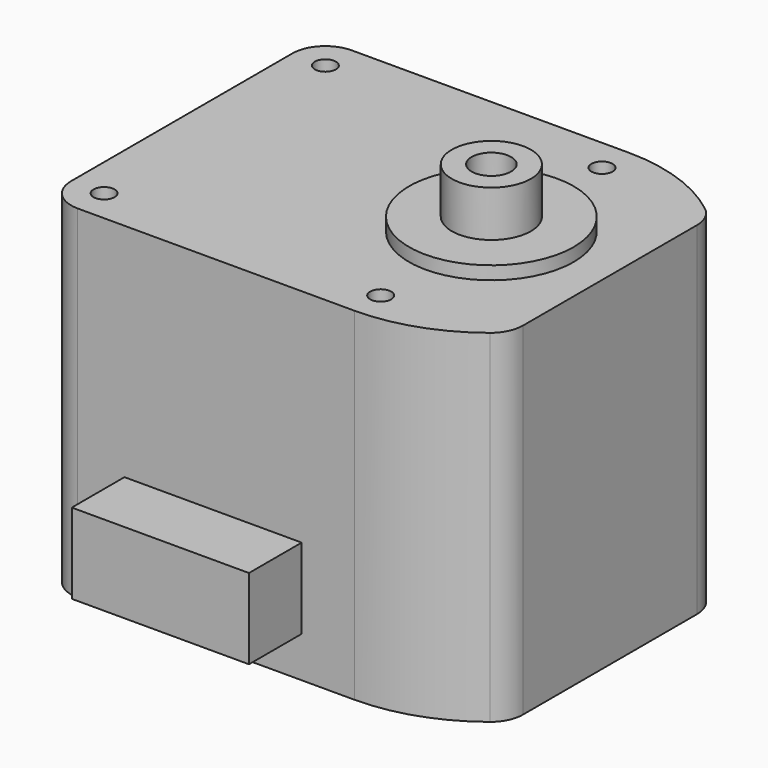
from build123d import *

# Parameters (mm, degrees)
F0_R          = 0.8
F1_DEPTH      = 13
F2_R          = 6.25
F3_DEPTH      = 1
F3_DEPTH_BACK = 27
F4_R          = 3
F4_R_2        = 1.5
F5_DEPTH      = 3.5
F6_R          = 3.5
F6_R_2        = 1.1
F7_DEPTH      = 2
F8_W          = 13.45
F8_H          = 6.1
F9_DEPTH      = 5


with BuildPart() as f1:
    # F0 (on Top) → F1 (new body, symmetric)
    with BuildSketch(Plane.XY):
        with BuildLine():
            Line((-23.5, 10.5), (-23.5, 0))
            Line((-23.5, 0), (-23.5, -10.5))
            ThreePointArc((-23.5, -10.5), (-22.767767, -12.267767), (-21, -13))
            Line((-21, -13), (0, -13))
            ThreePointArc((0, -13), (4.25883, -12.282604), (8.047619, -10.209595))
            ThreePointArc((8.047619, -10.209595), (8.749339, -9.337301), (9, -8.246211))
            Line((9, -8.246211), (9, 0))
            Line((9, 0), (9, 8.246211))
            ThreePointArc((9, 8.246211), (8.749339, 9.337301), (8.047619, 10.209595))
            ThreePointArc((8.047619, 10.209595), (4.25883, 12.282604), (0, 13))
            Line((0, 13), (-21, 13))
            ThreePointArc((-21, 13), (-22.767767, 12.267767), (-23.5, 10.5))
        make_face()
        with Locations((-21, -10.5)):
            Circle(F0_R, mode=Mode.SUBTRACT)
        with Locations((0, -10.5)):
            Circle(F0_R, mode=Mode.SUBTRACT)
        with Locations((-21, 10.5)):
            Circle(F0_R, mode=Mode.SUBTRACT)
        with Locations((0, 10.5)):
            Circle(F0_R, mode=Mode.SUBTRACT)
    extrude(amount=F1_DEPTH, both=True)

    # F2 (on face) → F3 (join, two sides)
    with BuildSketch(Plane.XY.offset(13)) as f3_sk:
        Circle(F2_R)
    extrude(amount=F3_DEPTH)
    extrude(f3_sk.sketch, amount=-F3_DEPTH_BACK)

    # F4 (on face) → F5 (join)
    with BuildSketch(Plane.XY.offset(14)):
        Circle(F4_R)
        Circle(F4_R_2, mode=Mode.SUBTRACT)
    extrude(amount=F5_DEPTH)

    # F6 (on face) → F7 (join)
    with BuildSketch(Plane(origin=(0, 0, -14), x_dir=(1, 0, 0), z_dir=(0, 0, -1))):
        Circle(F6_R)
        Circle(F6_R_2, mode=Mode.SUBTRACT)
    extrude(amount=F7_DEPTH)

    # F8 (on face) → F9 (join)
    with BuildSketch(Plane.XZ.offset(13)):
        with Locations((-10.725, -6.85)):
            Rectangle(F8_W, F8_H)
    extrude(amount=F9_DEPTH)


solid = f1.part
